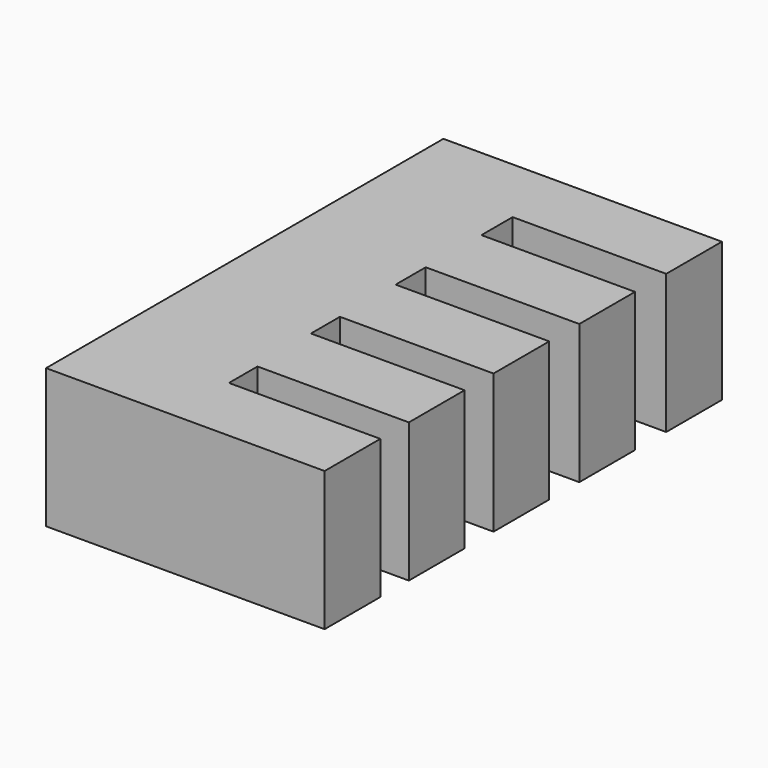
from build123d import *

# Parameters (mm, degrees)
F1_DEPTH = 12.7


with BuildPart() as f1:
    # F0 (on Top) → F1 (new body)
    with BuildSketch(Plane.XY):
        Polygon((0, 16.129), (0, 0), (25.4, 0), (25.4, 6.35), (11.595655, 6.35), (11.595655, 9.6012), (25.4, 9.6012), (25.4, 15.9512), (11.393009, 15.9512), (11.393009, 19.2532), (25.4, 19.2532), (25.4, 25.6032), (11.393009, 25.6032), (11.393009, 29.0322), (25.4, 29.0322), (25.4, 35.3822), (11.393009, 35.3822), (11.393009, 38.9382), (25.4, 38.9382), (25.4, 45.2882), (0, 45.2882), (0, 35.3822), align=None)
    extrude(amount=F1_DEPTH)


solid = f1.part
